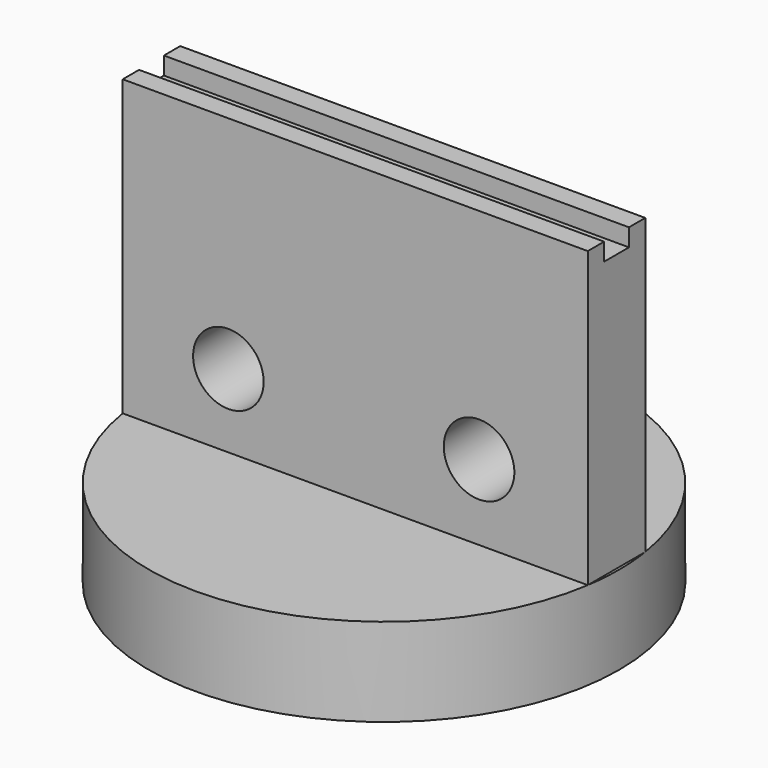
from build123d import *

# Parameters (mm, degrees)
F0_R     = 40
F1_DEPTH = 15
F2_W     = 79.06135
F2_H     = 12.21896
F3_DEPTH = 50
F4_W     = 79.06135
F4_H     = 5.281066
F5_DEPTH = 3
F6_R     = 6
F7_DEPTH = 25


with BuildPart() as f1:
    # F0 (on Top) → F1 (new body)
    with BuildSketch(Plane.XY):
        Circle(F0_R)
    extrude(amount=F1_DEPTH)

    # F2 (on face) → F3 (join)
    with BuildSketch(Plane.XY.offset(15)):
        Rectangle(F2_W, F2_H)
    extrude(amount=F3_DEPTH)

    # F4 (on face) → F5 (cut)
    with BuildSketch(Plane.XY.offset(65)):
        Rectangle(F4_W, F4_H)
    extrude(amount=-F5_DEPTH, mode=Mode.SUBTRACT)

    # F6 (on face) → F7 (cut)
    with BuildSketch(Plane(origin=(0, 6.10948, 0), x_dir=(-1, 0, 0), z_dir=(0, 1, 0))):
        with Locations((-21.04659, 27.803255)):
            Circle(F6_R)
        with Locations((21.568101, 27.492605)):
            Circle(F6_R)
    extrude(amount=-F7_DEPTH, mode=Mode.SUBTRACT)


solid = f1.part
